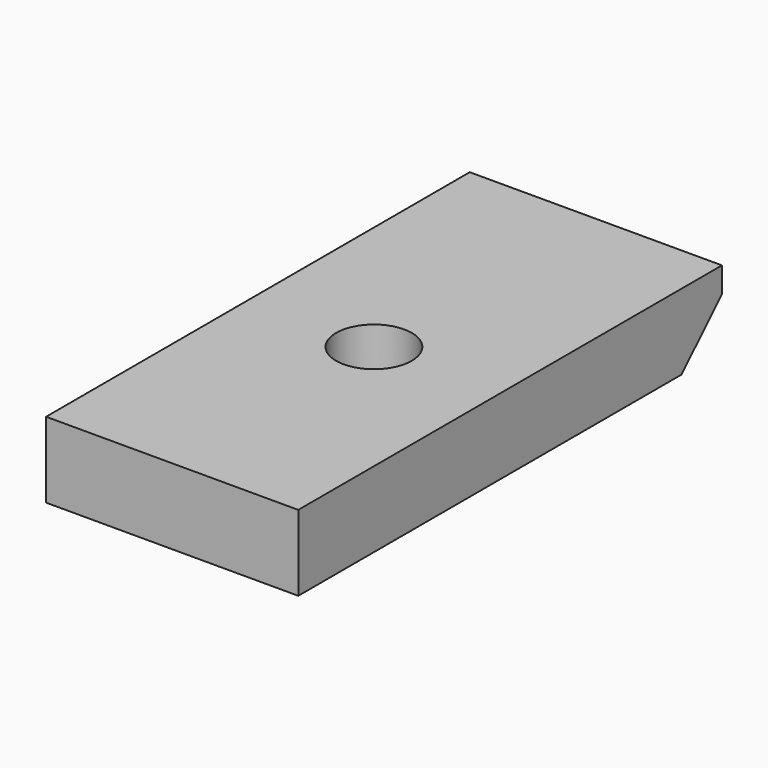
from build123d import *

# Parameters (mm, degrees)
CYLINDER_R      = 1.5
CYLINDER_DEPTH  = 10
BOX007_W        = 10
BOX007_H        = 21
BOX007_DEPTH    = 3
CHAMFER002_SIZE = 2


with BuildPart() as cylinder:
    # Cylinder → Cylinder (new body)
    with BuildSketch(Plane(origin=(5, 10, 0), x_dir=(1, 0, 0), z_dir=(0, 0, 1))):
        Circle(CYLINDER_R)
    extrude(amount=CYLINDER_DEPTH)


with BuildPart() as chamfer002:
    # Box007 → Box007 (new body)
    with BuildSketch(Plane.XY):
        with Locations((5, 10.5)):
            Rectangle(BOX007_W, BOX007_H)
    extrude(amount=BOX007_DEPTH)

    # Cut004: cut Cylinder
    add(cylinder.part, mode=Mode.SUBTRACT)

    # Chamfer002
    chamfer002_edges = [chamfer002.edges().sort_by_distance(p)[0] for p in [
        (5, 21, 0),
    ]]
    chamfer(chamfer002_edges, length=CHAMFER002_SIZE)


solid = chamfer002.part
